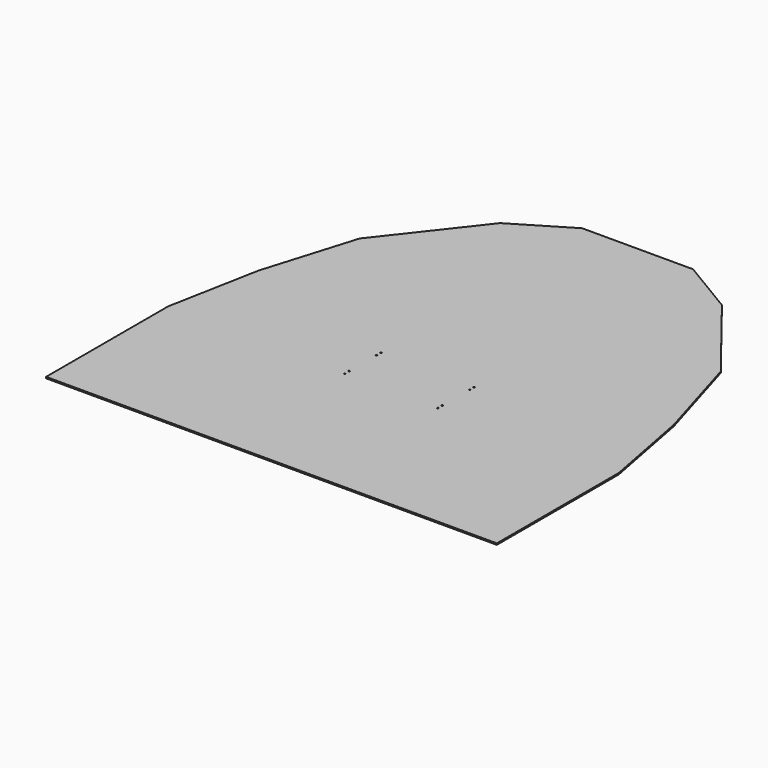
from build123d import *

# Parameters (mm, degrees)
F0_R     = 2.5
F0_W     = 1625
F0_H     = 550
F1_DEPTH = 5


with BuildPart() as f1:
    # F0 (on Top) → F1 (new body)
    with BuildSketch(Plane.XY):
        Polygon((-749.999512, 52.24733), (-812.499512, -277.75267), (812.500488, -277.75267), (749.994295, 47.936948), align=None)
        with Locations((-167.999512, -267.7244)):
            Circle(F0_R, mode=Mode.SUBTRACT)
        with Locations((-167.999512, -144.441955)):
            Circle(F0_R, mode=Mode.SUBTRACT)
        with Locations((-167.999512, -124.441955)):
            Circle(F0_R, mode=Mode.SUBTRACT)
        with Locations((168.000488, -267.7244)):
            Circle(F0_R, mode=Mode.SUBTRACT)
        with Locations((168.000488, -144.441955)):
            Circle(F0_R, mode=Mode.SUBTRACT)
        with Locations((168.000488, -124.441955)):
            Circle(F0_R, mode=Mode.SUBTRACT)
        with Locations((0.000488, -552.75267)):
            Rectangle(F0_W, F0_H)
        with Locations((-167.999512, -287.7244)):
            Circle(F0_R, mode=Mode.SUBTRACT)
        with Locations((168.000488, -287.7244)):
            Circle(F0_R, mode=Mode.SUBTRACT)
        Polygon((-649.999512, 382.24733), (-749.999512, 52.24733), (749.994295, 47.936948), (649.998543, 384.496444), align=None)
        Polygon((-399.999512, 702.24733), (-649.999512, 382.24733), (649.998543, 384.496444), (400.000488, 702.24733), align=None)
        Polygon((-199.999512, 822.24733), (-399.999512, 702.24733), (400.000488, 702.24733), (200.000486, 822.207413), align=None)
    extrude(amount=-F1_DEPTH)


solid = f1.part
